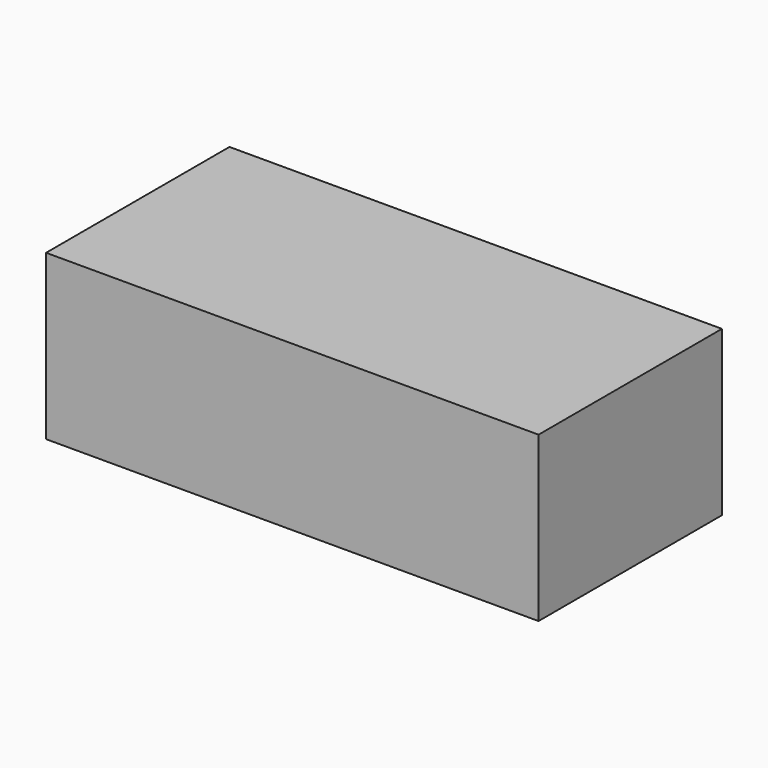
from build123d import *

# Parameters (mm, degrees)
F0_W     = 76.2266889215
F0_H     = 35.1707711816
F1_DEPTH = 25.4
F2_DEPTH = 0.30805


with BuildPart() as f1:
    # F0 (on Top) → F1 (new body)
    with BuildSketch(Plane.XY):
        with Locations((-38.1133444607, 17.5853855908)):
            Rectangle(F0_W, F0_H)
    extrude(amount=F1_DEPTH)

    # F2 (add): a face of the model
    f2_faces = [f1.faces().sort_by_distance(p)[0] for p in [
        (-38.1133444607, 35.1707711816, 12.7),
    ]]
    extrude(f2_faces, amount=F2_DEPTH)


solid = f1.part
